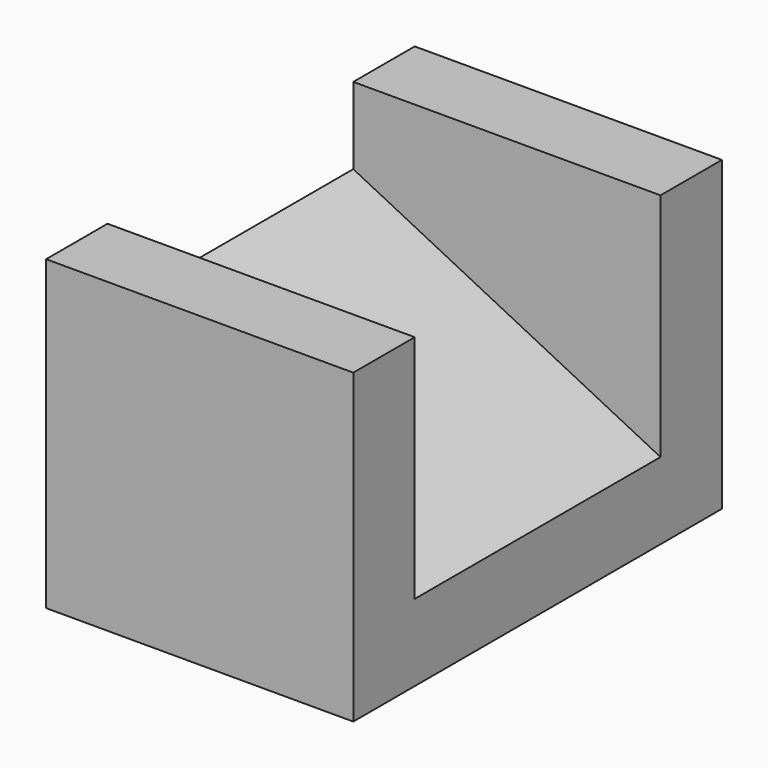
from build123d import *

# Parameters (mm, degrees)
F0_W     = 20
F0_H     = 5
F1_DEPTH = 15
F2_W     = 20
F2_H     = 15
F3_DEPTH = 5
F5_DEPTH = 25
F7_DEPTH = 5
F8_W     = 20
F8_H     = 15
F9_DEPTH = 5


with BuildPart() as f1:
    # F0 (on Front) → F1 (new body, symmetric)
    with BuildSketch(Plane.XZ):
        with Locations((10, 2.5)):
            Rectangle(F0_W, F0_H)
    extrude(amount=F1_DEPTH, both=True)

    # F2 (on face) → F3 (join)
    with BuildSketch(Plane.XZ.offset(15)):
        with Locations((10, 12.5)):
            Rectangle(F2_W, F2_H)
    extrude(amount=-F3_DEPTH)

    # F4 (on face) → F5 (join)
    with BuildSketch(Plane(origin=(0, 15, 0), x_dir=(-1, 0, 0), z_dir=(0, 1, 0))):
        Polygon((0, 15), (-20, 5), (0, 5), align=None)
    extrude(amount=-F5_DEPTH)

    # F6 (on face) → F7 (cut)
    with BuildSketch(Plane(origin=(0, 15, 0), x_dir=(-1, 0, 0), z_dir=(0, 1, 0))):
        Polygon((0, 15), (-20, 5), (0, 5), align=None)
    extrude(amount=-F7_DEPTH, mode=Mode.SUBTRACT)

    # F8 (on face) → F9 (join)
    with BuildSketch(Plane(origin=(0, 15, 0), x_dir=(-1, 0, 0), z_dir=(0, 1, 0))):
        with Locations((-10, 12.5)):
            Rectangle(F8_W, F8_H)
    extrude(amount=-F9_DEPTH)


solid = f1.part
